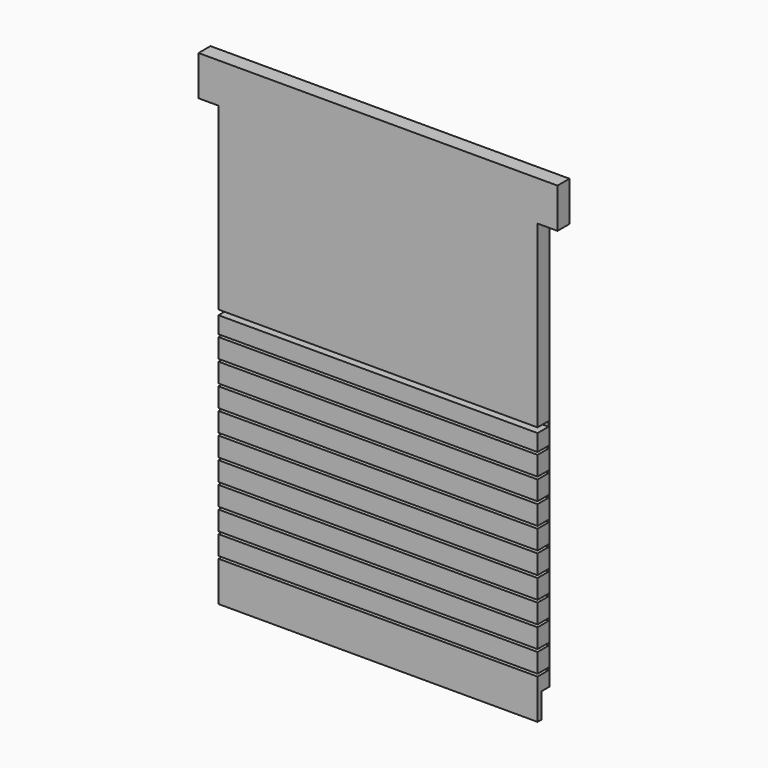
from build123d import *

# Parameters (mm, degrees)
F1_DEPTH = 19.05
F2_W     = 406.4
F2_H     = 3.175
F3_DEPTH = 17.4625
F4_W     = 406.4
F4_H     = 31.75
F5_DEPTH = 12.7


with BuildPart() as f1:
    # F0 (on Front) → F1 (new body)
    with BuildSketch(Plane.XZ):
        Polygon((218.022645, -71.199347), (218.022645, 487.600653), (243.422645, 487.600653), (243.422645, 538.400653), (-213.777355, 538.400653), (-213.777355, 487.600653), (-188.377355, 487.600653), (-188.377355, -71.199347), align=None)
    extrude(amount=F1_DEPTH)

    # F2 (on face) → F3 (cut)
    with BuildSketch(Plane.XZ.offset(19.05)):
        with Locations((14.822645, 257.413153)):
            Rectangle(F2_W, F2_H)
        with Locations((14.822645, 229.790653)):
            Rectangle(F2_W, F2_H)
        with Locations((14.822645, 254.238153)):
            Rectangle(F2_W, F2_H)
        with Locations((14.822645, 229.790653)):
            Rectangle(F2_W, F2_H)
        with Locations((14.822645, 202.168153)):
            Rectangle(F2_W, F2_H)
        with Locations((14.822645, 174.545653)):
            Rectangle(F2_W, F2_H)
        with Locations((14.822645, 146.923153)):
            Rectangle(F2_W, F2_H)
        with Locations((14.822645, 119.300653)):
            Rectangle(F2_W, F2_H)
        with Locations((14.822645, 91.678153)):
            Rectangle(F2_W, F2_H)
        with Locations((14.822645, 64.055653)):
            Rectangle(F2_W, F2_H)
        with Locations((14.822645, 36.433153)):
            Rectangle(F2_W, F2_H)
        with Locations((14.822645, 8.810653)):
            Rectangle(F2_W, F2_H)
        with Locations((14.822645, -18.811847)):
            Rectangle(F2_W, F2_H)
    extrude(amount=-F3_DEPTH, mode=Mode.SUBTRACT)

    # F4 (on face) → F5 (cut)
    with BuildSketch(Plane(origin=(0, 0, 0), x_dir=(-1, 0, 0), z_dir=(0, 1, 0))):
        with Locations((-14.822645, -55.324347)):
            Rectangle(F4_W, F4_H)
    extrude(amount=-F5_DEPTH, mode=Mode.SUBTRACT)


solid = f1.part
